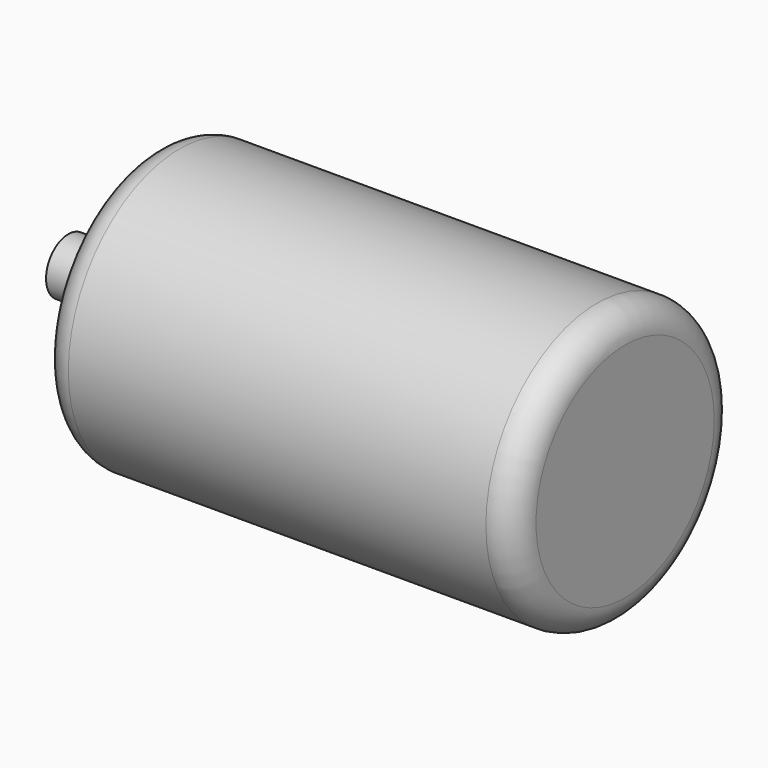
from build123d import *

# Parameters (mm, degrees)
F2_R = 5


with BuildPart() as f1:
    # F0 (on Top) → F1 (revolve)
    with BuildSketch(Plane.XY):
        Polygon((0, 5), (0, 0), (100, 0), (100, 25), (15, 25), (15, 5), align=None)
    revolve(axis=Axis((50, 0, 0), (-1, 0, 0)))

    # F2
    f2_edges = [f1.edges().sort_by_distance(p)[0] for p in [
        (15, -25, 0),
        (100, -25, 0),
    ]]
    fillet(f2_edges, radius=F2_R)


solid = f1.part
